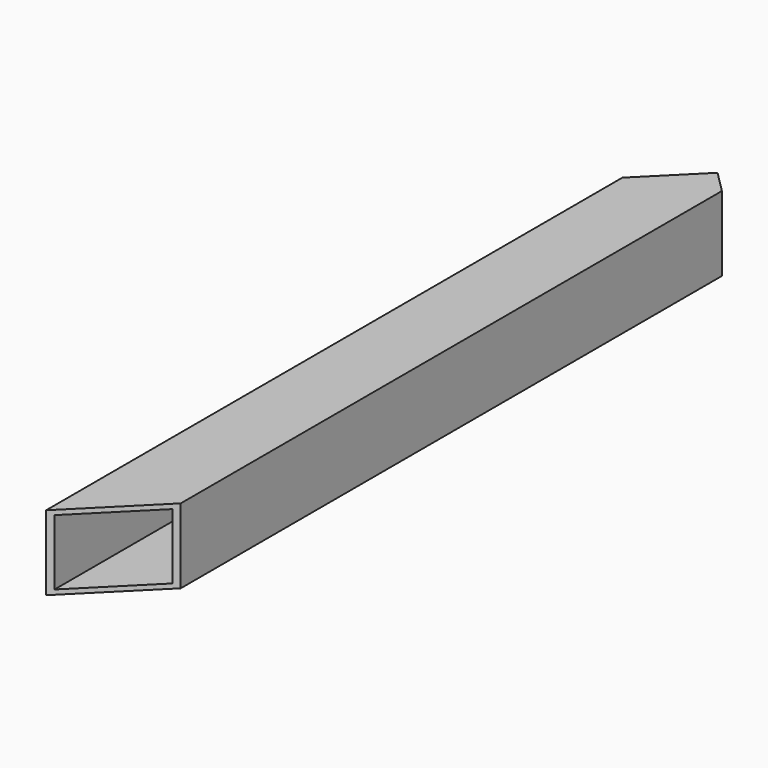
from build123d import *

# Parameters (mm, degrees)
F1_DEPTH = 25.4
F2_T     = -1.5875
F3_W     = 22.225
F3_H     = 22.225
F4_DEPTH = 262.563512
F6_DEPTH = 25.4


with BuildPart() as f1:
    # F0 (on Top) → F1 (new body)
    with BuildSketch(Plane.XY):
        Polygon((5.260512, 127.561512), (-12.7, 109.601), (-12.7, -135.001), (12.7, -135.001), (12.7, 120.122024), align=None)
    extrude(amount=F1_DEPTH)

    # F2
    f2_openings = [f1.faces().sort_by_distance(p)[0] for p in [
        (0, -135.001, 12.7),
    ]]
    offset(amount=F2_T, openings=f2_openings)

    # F3 (on face) → F4 (cut, through all)
    with BuildSketch(Plane.XZ.offset(135.001)):
        with Locations((0, 12.7)):
            Rectangle(F3_W, F3_H)
    extrude(amount=-F4_DEPTH, mode=Mode.SUBTRACT)

    # F5 (on face) → F6 (cut)
    with BuildSketch(Plane.XY.offset(25.4)):
        Polygon((12.7, -109.601), (-12.7, -135.001), (12.7, -135.001), align=None)
    extrude(amount=-F6_DEPTH, mode=Mode.SUBTRACT)


solid = f1.part
